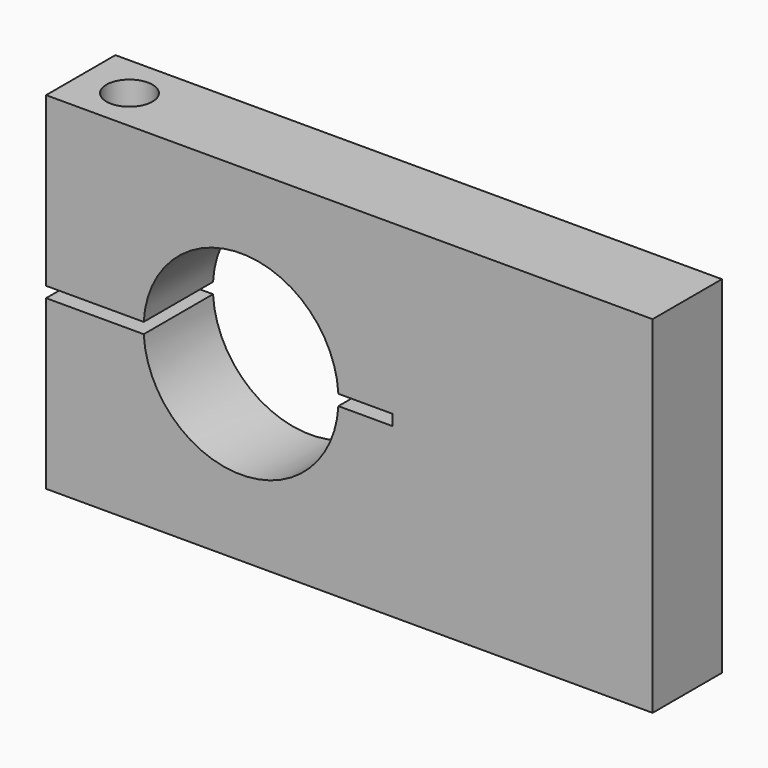
from build123d import *

# Parameters (mm, degrees)
F1_DEPTH = 25.4
F3_D     = 13.49248


with BuildPart() as f1:
    # F0 (on Front) → F1 (new body)
    with BuildSketch(Plane.XZ):
        with BuildLine():
            Line((-88.9, -1.5875), (-88.9, -50.8))
            Line((-88.9, -50.8), (88.9, -50.8))
            Line((88.9, -50.8), (88.9, 50.8))
            Line((88.9, 50.8), (-88.9, 50.8))
            Line((-88.9, 50.8), (-88.9, 1.5875))
            Line((-88.9, 1.5875), (-60.2808686995, 1.5875))
            ThreePointArc((-60.2808686995, 1.5875), (-31.75, 28.575), (-3.2191313005, 1.5875))
            Line((-3.2191313005, 1.5875), (12.7, 1.5875))
            Line((12.7, 1.5875), (12.7, 0))
            Line((12.7, 0), (12.7, -1.5875))
            Line((12.7, -1.5875), (-3.2191313005, -1.5875))
            ThreePointArc((-3.2191313005, -1.5875), (-31.75, -28.575), (-60.2808686995, -1.5875))
            Line((-60.2808686995, -1.5875), (-88.9, -1.5875))
        make_face()
    extrude(amount=-F1_DEPTH)

    # F3 (through all)
    with Locations(Plane.XY.offset(50.8)):
        with Locations((-74.6125, 12.7)):
            Hole(F3_D / 2)


solid = f1.part
